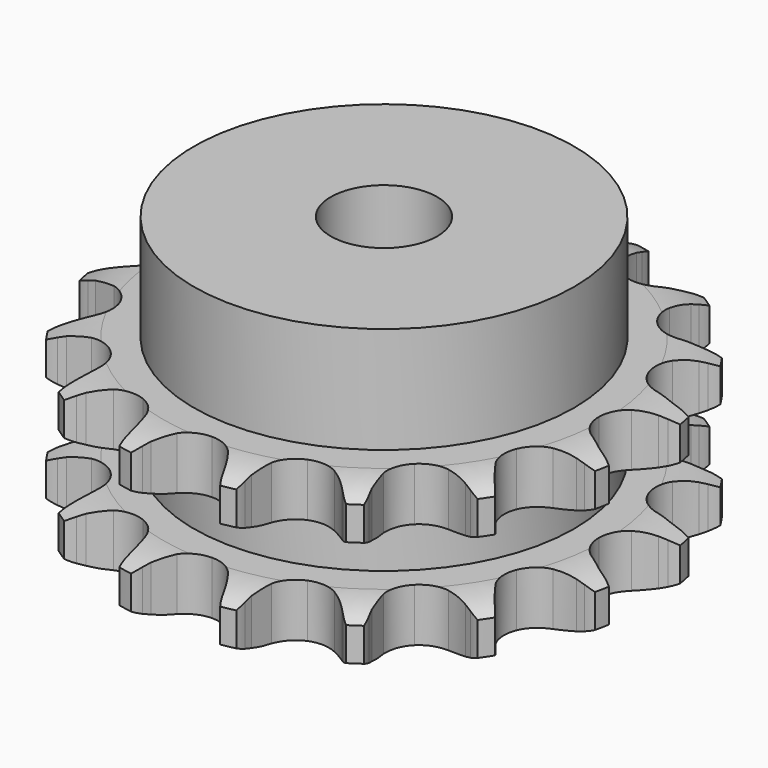
from build123d import *

# Parameters (mm, degrees)
PAD_DEPTH         = 21
SKETCH001_R       = 25
PAD001_DEPTH      = 35
SKETCH002_R       = 7
POCKET_DEPTH      = 0.001
POCKET_DEPTH_BACK = 35.001


with BuildPart() as part:
    # Sprocket → Pad (new body)
    with BuildSketch(Plane.XY):
        with BuildLine():
            ThreePointArc((-7.081309, 35.600145), (-6.020618, 34.467806), (-5.232154, 33.13155))
            Line((-5.232154, 33.13155), (-4.831506, 32.242144))
            ThreePointArc((-4.831506, 32.242144), (-4.17393, 30.998888), (-3.364714, 29.848558))
            ThreePointArc((-3.364714, 29.848558), (-1.865877, 28.658996), (0, 28.234651))
            ThreePointArc((0, 28.234651), (1.865877, 28.658996), (3.364714, 29.848558))
            ThreePointArc((3.364714, 29.848558), (4.17393, 30.998888), (4.831506, 32.242144))
            Line((4.831506, 32.242144), (5.232154, 33.13155))
            ThreePointArc((5.232154, 33.13155), (6.020618, 34.467806), (7.081309, 35.600145))
            ThreePointArc((7.081309, 35.600145), (7.627933, 34.148091), (7.845015, 32.611819))
            Line((7.845015, 32.611819), (7.874805, 31.636794))
            ThreePointArc((7.874805, 31.636794), (8.006552, 30.236532), (8.313958, 28.864092))
            ThreePointArc((8.313958, 28.864092), (9.243477, 27.1915), (10.804933, 26.085416))
            ThreePointArc((10.804933, 26.085416), (12.691169, 25.76342), (14.531139, 26.288851))
            Line((14.531139, 26.288851), (16.802264, 27.93892))
            ThreePointArc((16.802264, 27.93892), (17.150188, 28.280904), (17.512775, 28.607302))
            ThreePointArc((17.512775, 28.607302), (18.752584, 29.54011), (20.165862, 30.180346))
            ThreePointArc((20.165862, 30.180346), (20.1152, 28.629639), (19.727852, 27.127235))
            Line((19.727852, 27.127235), (19.382248, 26.215029))
            ThreePointArc((19.382248, 26.215029), (18.96811, 24.870938), (18.726905, 23.48533))
            ThreePointArc((18.726905, 23.48533), (18.945596, 21.584345), (19.964913, 19.964913))
            ThreePointArc((19.964913, 19.964913), (21.584345, 18.945596), (23.48533, 18.726905))
            Line((23.48533, 18.726905), (26.215029, 19.382248))
            ThreePointArc((26.215029, 19.382248), (26.667341, 19.565055), (27.127235, 19.727852))
            ThreePointArc((27.127235, 19.727852), (28.629639, 20.1152), (30.180346, 20.165862))
            ThreePointArc((30.180346, 20.165862), (29.54011, 18.752584), (28.607302, 17.512775))
            Line((28.607302, 17.512775), (27.93892, 16.802264))
            ThreePointArc((27.93892, 16.802264), (27.041944, 15.71897), (26.288851, 14.531139))
            ThreePointArc((26.288851, 14.531139), (25.76342, 12.691169), (26.085416, 10.804933))
            ThreePointArc((26.085416, 10.804933), (27.1915, 9.243477), (28.864092, 8.313958))
            Line((28.864092, 8.313958), (31.636794, 7.874805))
            ThreePointArc((31.636794, 7.874805), (32.124633, 7.870605), (32.611819, 7.845015))
            ThreePointArc((32.611819, 7.845015), (34.148091, 7.627933), (35.600145, 7.081309))
            ThreePointArc((35.600145, 7.081309), (34.467806, 6.020618), (33.13155, 5.232154))
            Line((33.13155, 5.232154), (32.242144, 4.831506))
            ThreePointArc((32.242144, 4.831506), (30.998888, 4.17393), (29.848558, 3.364714))
            ThreePointArc((29.848558, 3.364714), (28.658996, 1.865877), (28.234651, 0))
            ThreePointArc((28.234651, 0), (28.658996, -1.865877), (29.848558, -3.364714))
            Line((29.848558, -3.364714), (32.242144, -4.831506))
            ThreePointArc((32.242144, -4.831506), (32.691241, -5.022074), (33.13155, -5.232154))
            ThreePointArc((33.13155, -5.232154), (34.467806, -6.020618), (35.600145, -7.081309))
            ThreePointArc((35.600145, -7.081309), (34.148091, -7.627933), (32.611819, -7.845015))
            Line((32.611819, -7.845015), (31.636794, -7.874805))
            ThreePointArc((31.636794, -7.874805), (30.236532, -8.006552), (28.864092, -8.313958))
            ThreePointArc((28.864092, -8.313958), (27.1915, -9.243477), (26.085416, -10.804933))
            ThreePointArc((26.085416, -10.804933), (25.76342, -12.691169), (26.288851, -14.531139))
            Line((26.288851, -14.531139), (27.93892, -16.802264))
            ThreePointArc((27.93892, -16.802264), (28.280904, -17.150188), (28.607302, -17.512775))
            ThreePointArc((28.607302, -17.512775), (29.54011, -18.752584), (30.180346, -20.165862))
            ThreePointArc((30.180346, -20.165862), (28.629639, -20.1152), (27.127235, -19.727852))
            Line((27.127235, -19.727852), (26.215029, -19.382248))
            ThreePointArc((26.215029, -19.382248), (24.870938, -18.96811), (23.48533, -18.726905))
            ThreePointArc((23.48533, -18.726905), (21.584345, -18.945596), (19.964913, -19.964913))
            ThreePointArc((19.964913, -19.964913), (18.945596, -21.584345), (18.726905, -23.48533))
            Line((18.726905, -23.48533), (19.382248, -26.215029))
            ThreePointArc((19.382248, -26.215029), (19.565055, -26.667341), (19.727852, -27.127235))
            ThreePointArc((19.727852, -27.127235), (20.1152, -28.629639), (20.165862, -30.180346))
            ThreePointArc((20.165862, -30.180346), (18.752584, -29.54011), (17.512775, -28.607302))
            Line((17.512775, -28.607302), (16.802264, -27.93892))
            ThreePointArc((16.802264, -27.93892), (15.71897, -27.041944), (14.531139, -26.288851))
            ThreePointArc((14.531139, -26.288851), (12.691169, -25.76342), (10.804933, -26.085416))
            ThreePointArc((10.804933, -26.085416), (9.243477, -27.1915), (8.313958, -28.864092))
            Line((8.313958, -28.864092), (7.874805, -31.636794))
            ThreePointArc((7.874805, -31.636794), (7.870605, -32.124633), (7.845015, -32.611819))
            ThreePointArc((7.845015, -32.611819), (7.627933, -34.148091), (7.081309, -35.600145))
            ThreePointArc((7.081309, -35.600145), (6.020618, -34.467806), (5.232154, -33.13155))
            Line((5.232154, -33.13155), (4.831506, -32.242144))
            ThreePointArc((4.831506, -32.242144), (4.17393, -30.998888), (3.364714, -29.848558))
            ThreePointArc((3.364714, -29.848558), (1.865877, -28.658996), (0, -28.234651))
            ThreePointArc((0, -28.234651), (-1.865877, -28.658996), (-3.364714, -29.848558))
            Line((-3.364714, -29.848558), (-4.831506, -32.242144))
            ThreePointArc((-4.831506, -32.242144), (-5.022074, -32.691241), (-5.232154, -33.13155))
            ThreePointArc((-5.232154, -33.13155), (-6.020618, -34.467806), (-7.081309, -35.600145))
            ThreePointArc((-7.081309, -35.600145), (-7.627933, -34.148091), (-7.845015, -32.611819))
            Line((-7.845015, -32.611819), (-7.874805, -31.636794))
            ThreePointArc((-7.874805, -31.636794), (-8.006552, -30.236532), (-8.313958, -28.864092))
            ThreePointArc((-8.313958, -28.864092), (-9.243477, -27.1915), (-10.804933, -26.085416))
            ThreePointArc((-10.804933, -26.085416), (-12.691169, -25.76342), (-14.531139, -26.288851))
            Line((-14.531139, -26.288851), (-16.802264, -27.93892))
            ThreePointArc((-16.802264, -27.93892), (-17.150188, -28.280904), (-17.512775, -28.607302))
            ThreePointArc((-17.512775, -28.607302), (-18.752584, -29.54011), (-20.165862, -30.180346))
            ThreePointArc((-20.165862, -30.180346), (-20.1152, -28.629639), (-19.727852, -27.127235))
            Line((-19.727852, -27.127235), (-19.382248, -26.215029))
            ThreePointArc((-19.382248, -26.215029), (-18.96811, -24.870938), (-18.726905, -23.48533))
            ThreePointArc((-18.726905, -23.48533), (-18.945596, -21.584345), (-19.964913, -19.964913))
            ThreePointArc((-19.964913, -19.964913), (-21.584345, -18.945596), (-23.48533, -18.726905))
            Line((-23.48533, -18.726905), (-26.215029, -19.382248))
            ThreePointArc((-26.215029, -19.382248), (-26.667341, -19.565055), (-27.127235, -19.727852))
            ThreePointArc((-27.127235, -19.727852), (-28.629639, -20.1152), (-30.180346, -20.165862))
            ThreePointArc((-30.180346, -20.165862), (-29.54011, -18.752584), (-28.607302, -17.512775))
            Line((-28.607302, -17.512775), (-27.93892, -16.802264))
            ThreePointArc((-27.93892, -16.802264), (-27.041944, -15.71897), (-26.288851, -14.531139))
            ThreePointArc((-26.288851, -14.531139), (-25.76342, -12.691169), (-26.085416, -10.804933))
            ThreePointArc((-26.085416, -10.804933), (-27.1915, -9.243477), (-28.864092, -8.313958))
            Line((-28.864092, -8.313958), (-31.636794, -7.874805))
            ThreePointArc((-31.636794, -7.874805), (-32.124633, -7.870605), (-32.611819, -7.845015))
            ThreePointArc((-32.611819, -7.845015), (-34.148091, -7.627933), (-35.600145, -7.081309))
            ThreePointArc((-35.600145, -7.081309), (-34.467806, -6.020618), (-33.13155, -5.232154))
            Line((-33.13155, -5.232154), (-32.242144, -4.831506))
            ThreePointArc((-32.242144, -4.831506), (-30.998888, -4.17393), (-29.848558, -3.364714))
            ThreePointArc((-29.848558, -3.364714), (-28.658996, -1.865877), (-28.234651, 0))
            ThreePointArc((-28.234651, 0), (-28.658996, 1.865877), (-29.848558, 3.364714))
            Line((-29.848558, 3.364714), (-32.242144, 4.831506))
            ThreePointArc((-32.242144, 4.831506), (-32.691241, 5.022074), (-33.13155, 5.232154))
            ThreePointArc((-33.13155, 5.232154), (-34.467806, 6.020618), (-35.600145, 7.081309))
            ThreePointArc((-35.600145, 7.081309), (-34.148091, 7.627933), (-32.611819, 7.845015))
            Line((-32.611819, 7.845015), (-31.636794, 7.874805))
            ThreePointArc((-31.636794, 7.874805), (-30.236532, 8.006552), (-28.864092, 8.313958))
            ThreePointArc((-28.864092, 8.313958), (-27.1915, 9.243477), (-26.085416, 10.804933))
            ThreePointArc((-26.085416, 10.804933), (-25.76342, 12.691169), (-26.288851, 14.531139))
            Line((-26.288851, 14.531139), (-27.93892, 16.802264))
            ThreePointArc((-27.93892, 16.802264), (-28.280904, 17.150188), (-28.607302, 17.512775))
            ThreePointArc((-28.607302, 17.512775), (-29.54011, 18.752584), (-30.180346, 20.165862))
            ThreePointArc((-30.180346, 20.165862), (-28.629639, 20.1152), (-27.127235, 19.727852))
            Line((-27.127235, 19.727852), (-26.215029, 19.382248))
            ThreePointArc((-26.215029, 19.382248), (-24.870938, 18.96811), (-23.48533, 18.726905))
            ThreePointArc((-23.48533, 18.726905), (-21.584345, 18.945596), (-19.964913, 19.964913))
            ThreePointArc((-19.964913, 19.964913), (-18.945596, 21.584345), (-18.726905, 23.48533))
            Line((-18.726905, 23.48533), (-19.382248, 26.215029))
            ThreePointArc((-19.382248, 26.215029), (-19.565055, 26.667341), (-19.727852, 27.127235))
            ThreePointArc((-19.727852, 27.127235), (-20.1152, 28.629639), (-20.165862, 30.180346))
            ThreePointArc((-20.165862, 30.180346), (-18.752584, 29.54011), (-17.512775, 28.607302))
            Line((-17.512775, 28.607302), (-16.802264, 27.93892))
            ThreePointArc((-16.802264, 27.93892), (-15.71897, 27.041944), (-14.531139, 26.288851))
            ThreePointArc((-14.531139, 26.288851), (-12.691169, 25.76342), (-10.804933, 26.085416))
            ThreePointArc((-10.804933, 26.085416), (-9.243477, 27.1915), (-8.313958, 28.864092))
            Line((-8.313958, 28.864092), (-7.874805, 31.636794))
            ThreePointArc((-7.874805, 31.636794), (-7.870605, 32.124633), (-7.845015, 32.611819))
            ThreePointArc((-7.845015, 32.611819), (-7.627933, 34.148091), (-7.081309, 35.600145))
        make_face()
    extrude(amount=PAD_DEPTH)

    # Sketch → Groove (revolve, cut)
    with BuildSketch(Plane.XZ):
        with BuildLine():
            ThreePointArc((29.083431, 0), (31.99032, 0.329167), (34.75, 1.3))
            Line((34.75, 1.3), (34.75, 5.7))
            ThreePointArc((34.75, 5.7), (31.99032, 6.670833), (29.083431, 7))
            Line((25, 7), (29.083431, 7))
            Line((25, 14), (25, 7))
            Line((29.083431, 14), (25, 14))
            ThreePointArc((29.083431, 14), (31.99032, 14.329167), (34.75, 15.3))
            Line((34.75, 15.3), (34.75, 19.7))
            ThreePointArc((34.75, 19.7), (31.99032, 20.670833), (29.083431, 21))
            Line((29.083431, 21), (39.083431, 21))
            Line((39.083431, 21), (39.083431, 0))
            Line((29.083431, 0), (39.083431, 0))
        make_face()
    revolve(axis=Axis((0, 0, 0), (0, 0, 1)), mode=Mode.SUBTRACT)

    # Sketch001 → Pad001 (join)
    with BuildSketch(Plane.XY):
        Circle(SKETCH001_R)
    extrude(amount=PAD001_DEPTH)

    # Sketch002 → Pocket (cut, two sides)
    with BuildSketch(Plane.XY) as pocket_sk:
        Circle(SKETCH002_R)
    extrude(amount=-POCKET_DEPTH, mode=Mode.SUBTRACT)
    extrude(pocket_sk.sketch, amount=POCKET_DEPTH_BACK, mode=Mode.SUBTRACT)


solid = part.part
